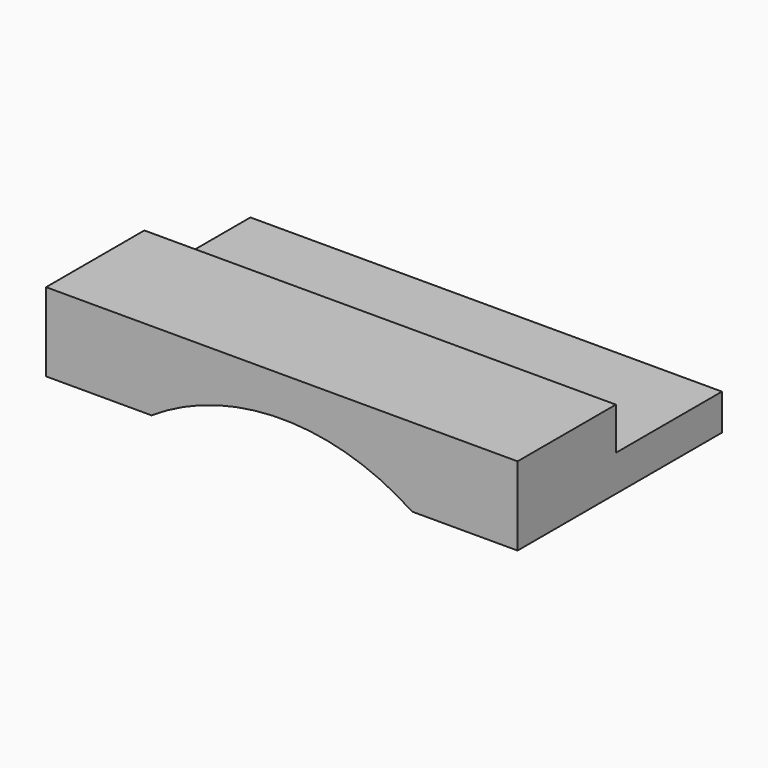
from build123d import *

# Parameters (mm, degrees)
F1_DEPTH = 39.6875
F2_W     = 152.4
F2_H     = 25.4
F3_DEPTH = 42.8625
F4_W     = 152.4
F4_H     = 13.716
F5_DEPTH = 42.8498


with BuildPart() as f1:
    # F0 (on Front) → F1 (new body)
    with BuildSketch(Plane.XZ):
        with BuildLine():
            Line((0, 25.4), (0, 0))
            Line((0, 0), (34.078865, 0))
            ThreePointArc((34.078865, 0), (76.2, 12.7), (118.321135, 0))
            Line((118.321135, 0), (152.4, 0))
            Line((152.4, 0), (152.4, 25.4))
            Line((152.4, 25.4), (0, 25.4))
        make_face()
    extrude(amount=F1_DEPTH)

    # F2 (on face) → F3 (join)
    with BuildSketch(Plane(origin=(0, 0, 0), x_dir=(-1, 0, 0), z_dir=(0, 1, 0))):
        with Locations((-76.2, 12.7)):
            Rectangle(F2_W, F2_H)
    extrude(amount=F3_DEPTH)

    # F4 (on face) → F5 (cut)
    with BuildSketch(Plane(origin=(0, 42.8625, 0), x_dir=(-1, 0, 0), z_dir=(0, 1, 0))):
        with Locations((-76.2, 18.542)):
            Rectangle(F4_W, F4_H)
    extrude(amount=-F5_DEPTH, mode=Mode.SUBTRACT)


solid = f1.part
